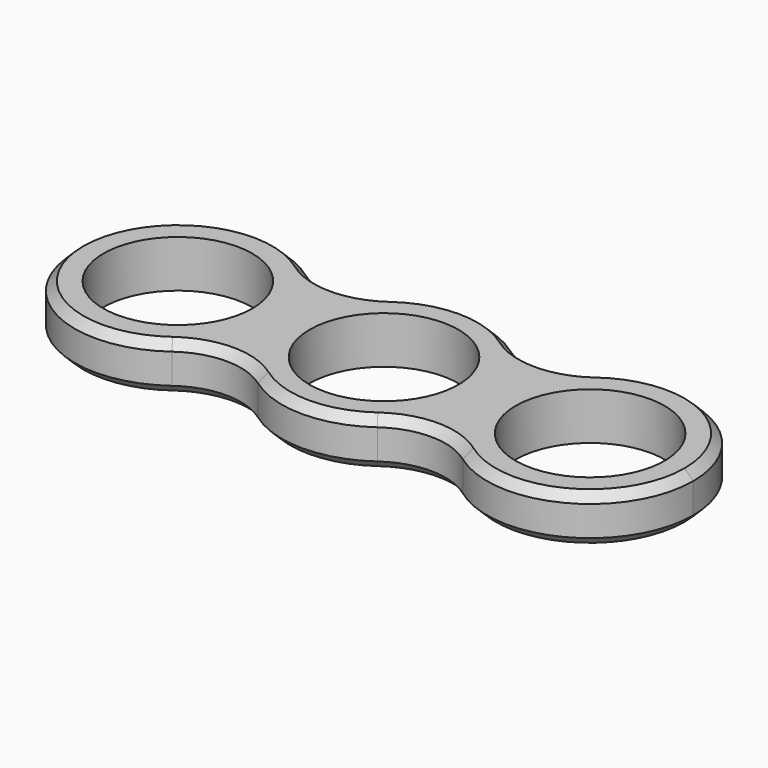
from build123d import *

# Parameters (mm, degrees)
F0_R     = 11.0109
F1_DEPTH = 6.985
F2_SIZE  = 1.27
F3_SIZE  = 1.27


with BuildPart() as f1:
    # F0 (on Top) → F1 (new body)
    with BuildSketch(Plane.XY):
        with BuildLine():
            Line((15.1104870251, 0), (11.0109, 0))
            ThreePointArc((11.0109, 0), (0, -11.0109), (-11.0109, 0))
            Line((-11.0109, 0), (-15.1104870251, 0))
            ThreePointArc((-15.1104870251, 0), (-13.4476229912, -6.8911721805), (-8.8250173454, -12.2656384664))
            ThreePointArc((-8.8250173454, -12.2656384664), (0, -15.1104870251), (8.8250173454, -12.2656384664))
            ThreePointArc((8.8250173454, -12.2656384664), (13.4476229912, -6.8911721805), (15.1104870251, 0))
        make_face()
        with BuildLine():
            ThreePointArc((-11.0109, 0), (0, 11.0109), (11.0109, 0))
            Line((11.0109, 0), (15.1104870251, 0))
            ThreePointArc((15.1104870251, 0), (13.4476229912, 6.8911721805), (8.8250173454, 12.2656384664))
            ThreePointArc((8.8250173454, 12.2656384664), (0, 15.1104870251), (-8.8250173454, 12.2656384664))
            ThreePointArc((-8.8250173454, 12.2656384664), (-13.4476229912, 6.8911721805), (-15.1104870251, 0))
            Line((-15.1104870251, 0), (-11.0109, 0))
        make_face()
        with BuildLine():
            ThreePointArc((8.8250173454, 12.2656384664), (13.4476229912, 6.8911721805), (15.1104870251, 0))
            Line((15.1104870251, 0), (15.24, 0))
            ThreePointArc((15.24, 0), (16.8932840155, 6.9035316148), (21.4944289707, 12.3092287848))
            ThreePointArc((21.4944289707, 12.3092287848), (15.1667904983, 10.2333297341), (8.8250173454, 12.2656384664))
        make_face()
        with BuildLine():
            Line((15.24, 0), (15.1104870251, 0))
            ThreePointArc((15.1104870251, 0), (13.4476229912, -6.8911721805), (8.8250173454, -12.2656384664))
            ThreePointArc((8.8250173454, -12.2656384664), (15.1667904983, -10.2333297341), (21.4944289707, -12.3092287848))
            ThreePointArc((21.4944289707, -12.3092287848), (16.8932840155, -6.9035316148), (15.24, 0))
        make_face()
        with BuildLine():
            ThreePointArc((-8.8250173454, -12.2656384664), (-13.4476229912, -6.8911721805), (-15.1104870251, 0))
            Line((-15.1104870251, 0), (-15.24, 0))
            ThreePointArc((-15.24, 0), (-16.8932840155, -6.9035316148), (-21.4944289707, -12.3092287848))
            ThreePointArc((-21.4944289707, -12.3092287848), (-15.1667904983, -10.2333297341), (-8.8250173454, -12.2656384664))
        make_face()
        with BuildLine():
            Line((-15.24, 0), (-15.1104870251, 0))
            ThreePointArc((-15.1104870251, 0), (-13.4476229912, 6.8911721805), (-8.8250173454, 12.2656384664))
            ThreePointArc((-8.8250173454, 12.2656384664), (-15.1667904983, 10.2333297341), (-21.4944289707, 12.3092287848))
            ThreePointArc((-21.4944289707, 12.3092287848), (-16.8932840155, 6.9035316148), (-15.24, 0))
        make_face()
        with BuildLine():
            ThreePointArc((21.4944289707, 12.3092287848), (16.8932840155, 6.9035316148), (15.24, 0))
            ThreePointArc((15.24, 0), (16.8932840155, -6.9035316148), (21.4944289707, -12.3092287848))
            ThreePointArc((21.4944289707, -12.3092287848), (37.3835316148, -13.5867159845), (45.72, 0))
            ThreePointArc((45.72, 0), (37.3835316148, 13.5867159845), (21.4944289707, 12.3092287848))
        make_face()
        with BuildLine():
            ThreePointArc((41.4909, 0), (30.48, -11.0109), (19.4691, 0))
            ThreePointArc((19.4691, 0), (30.48, 11.0109), (41.4909, 0))
        make_face(mode=Mode.SUBTRACT)
        with BuildLine():
            ThreePointArc((-21.4944289707, -12.3092287848), (-16.8932840155, -6.9035316148), (-15.24, 0))
            ThreePointArc((-15.24, 0), (-16.8932840155, 6.9035316148), (-21.4944289707, 12.3092287848))
            ThreePointArc((-21.4944289707, 12.3092287848), (-45.72, 0), (-21.4944289707, -12.3092287848))
        make_face()
        with Locations((-30.48, 0)):
            Circle(F0_R, mode=Mode.SUBTRACT)
    extrude(amount=F1_DEPTH)

    # F2
    f2_edges = [f1.edges().sort_by_distance(p)[0] for p in [
        (-45.72, 0, 6.985),
    ]]
    chamfer(f2_edges, length=F2_SIZE)

    # F3
    f3_edges = [f1.edges().sort_by_distance(p)[0] for p in [
        (-45.72, 0, 0),
        (45.72, 0, 0),
        (0, -15.110487, 0),
        (15.16679, -10.23333, 0),
        (-15.16679, -10.23333, 0),
        (-15.16679, 10.23333, 0),
        (0, 15.110487, 0),
        (15.16679, 10.23333, 0),
    ]]
    chamfer(f3_edges, length=F3_SIZE)


solid = f1.part
